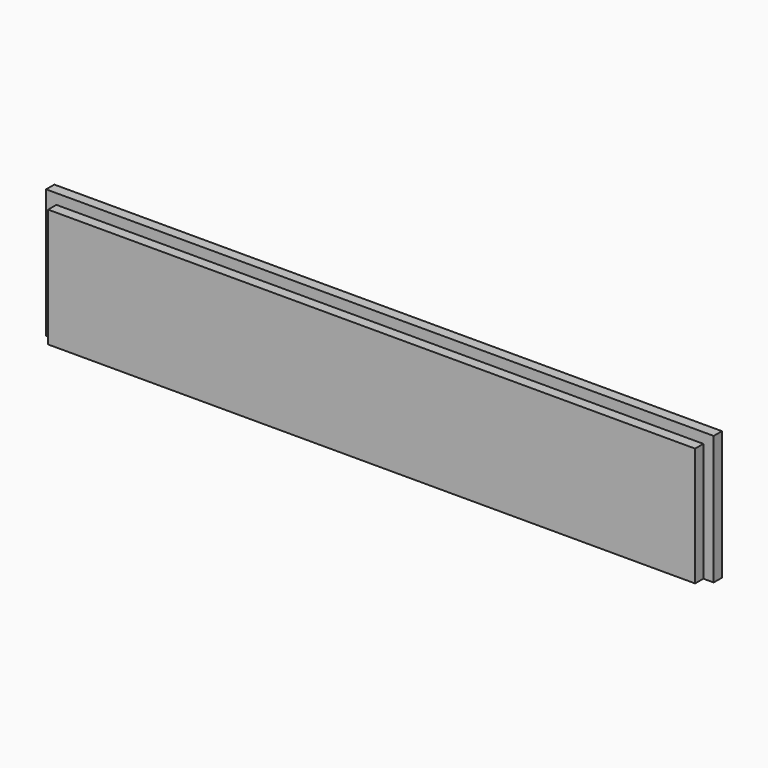
from build123d import *

# Parameters (mm, degrees)
F0_W     = 388
F0_H     = 75
F1_DEPTH = 12
F2_W     = 6
F2_H     = 75
F3_DEPTH = 6
F4_W     = 6
F4_H     = 75
F5_DEPTH = 6
F6_W     = 376
F6_H     = 6
F7_DEPTH = 6


with BuildPart() as f1:
    # F0 (on Front) → F1 (new body)
    with BuildSketch(Plane.XZ):
        with Locations((10.992817, 0)):
            Rectangle(F0_W, F0_H)
    extrude(amount=F1_DEPTH)

    # F2 (on face) → F3 (cut)
    with BuildSketch(Plane.XZ.offset(12)):
        with Locations((-180.007183, 0)):
            Rectangle(F2_W, F2_H)
    extrude(amount=-F3_DEPTH, mode=Mode.SUBTRACT)

    # F4 (on face) → F5 (cut)
    with BuildSketch(Plane.XZ.offset(12)):
        with Locations((201.992817, 0)):
            Rectangle(F4_W, F4_H)
    extrude(amount=-F5_DEPTH, mode=Mode.SUBTRACT)

    # F6 (on face) → F7 (cut)
    with BuildSketch(Plane.XZ.offset(12)):
        with Locations((10.992817, 34.5)):
            Rectangle(F6_W, F6_H)
    extrude(amount=-F7_DEPTH, mode=Mode.SUBTRACT)


solid = f1.part
